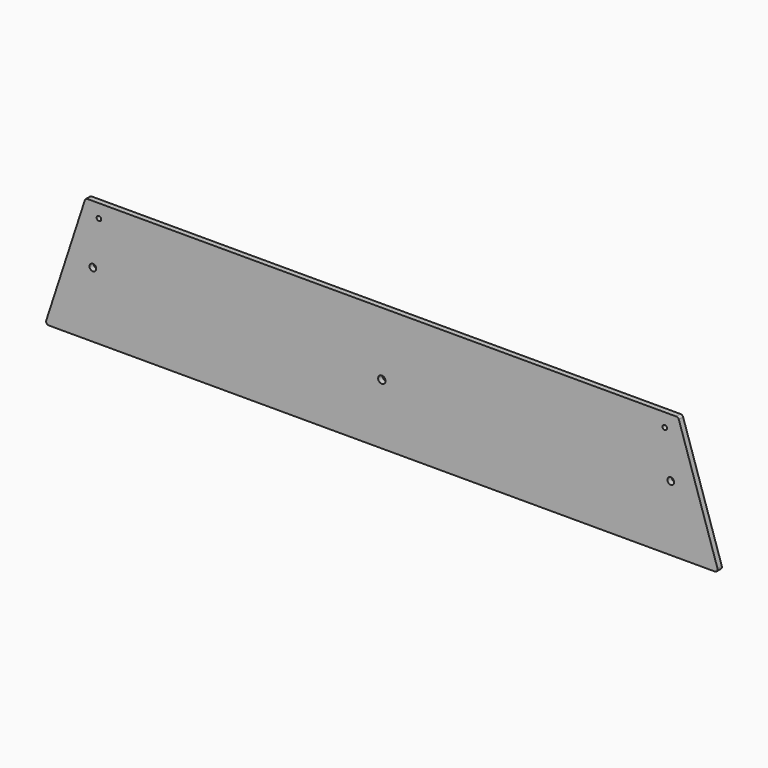
from build123d import *

# Parameters (mm, degrees)
F1_DEPTH = 4
F2_R     = 5
F2_R_2   = 3.4
F2_R_3   = 5.5
F3_DEPTH = 8
F4_R     = 4


with BuildPart() as f1:
    # F0 (on Front) → F1 (new body, symmetric)
    with BuildSketch(Plane.XZ):
        Polygon((500, -92), (440, 92), (-440, 92), (-500, -92), (-440, -92), (440, -92), align=None)
    extrude(amount=F1_DEPTH, both=True)

    # F2 (on face) → F3 (cut)
    with BuildSketch(Plane.XZ.offset(4)):
        with Locations((429, 5)):
            Circle(F2_R)
        with Locations((420, 72)):
            Circle(F2_R_2)
        with Locations((-420, 72)):
            Circle(F2_R_2)
        with Locations((-429, 5)):
            Circle(F2_R)
        with Locations((0, -2)):
            Circle(F2_R_3)
    extrude(amount=-F3_DEPTH, mode=Mode.SUBTRACT)

    # F4
    f4_edges = [f1.edges().sort_by_distance(p)[0] for p in [
        (500, 0, -92),
        (-500, 0, -92),
        (440, 0, 92),
        (-440, 0, 92),
    ]]
    fillet(f4_edges, radius=F4_R)


solid = f1.part
